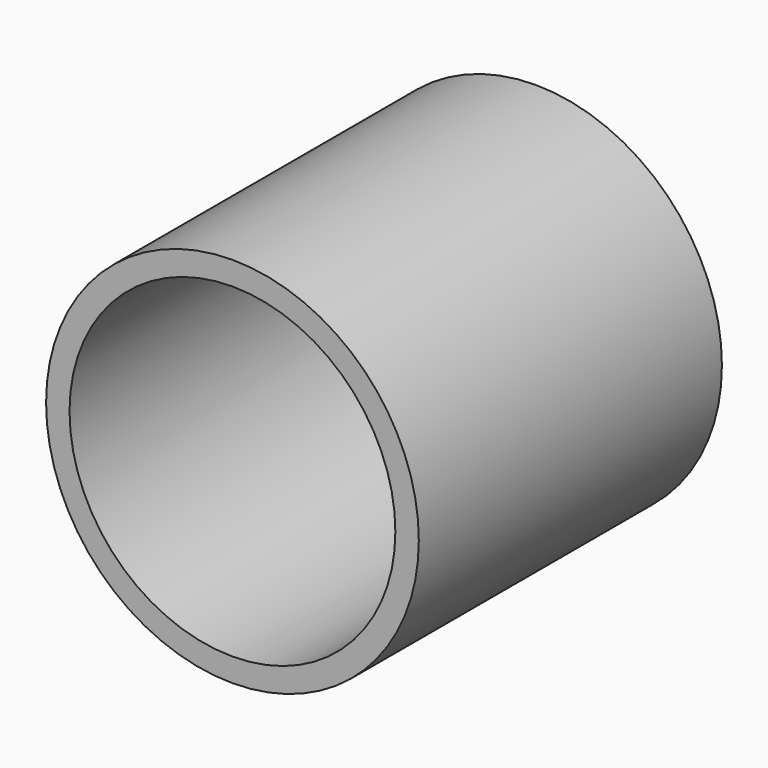
from build123d import *

# Parameters (mm, degrees)
F0_R     = 46.851816
F1_DEPTH = 95.25
F2_R     = 40.955656
F3_DEPTH = 88.9


with BuildPart() as f1:
    # F0 (on Front) → F1 (new body)
    with BuildSketch(Plane.XZ):
        Circle(F0_R)
        Circle(F0_R)
    extrude(amount=F1_DEPTH)

    # F2 (on face) → F3 (cut)
    with BuildSketch(Plane.XZ.offset(95.25)):
        Circle(F2_R)
    extrude(amount=-F3_DEPTH, mode=Mode.SUBTRACT)


solid = f1.part
